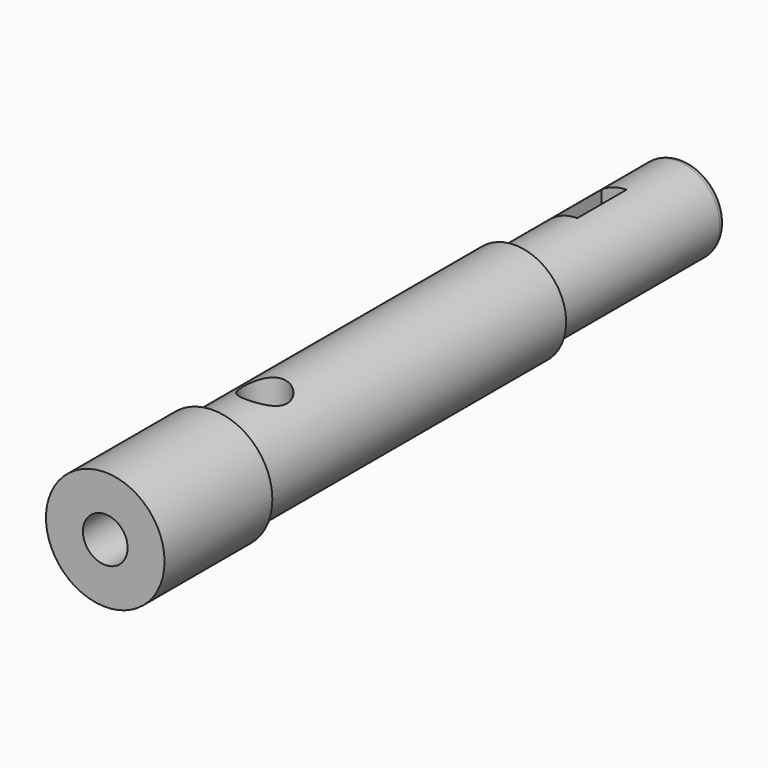
from build123d import *

# Parameters (mm, degrees)
F0_R          = 11
F0_R_2        = 4.15
F1_DEPTH      = 25
F2_R          = 9.5
F2_R_2        = 4.15
F3_DEPTH      = 70
F4_R          = 4.15
F5_DEPTH      = 11.001
F5_DEPTH_BACK = 25
F6_R          = 4.15
F7_DEPTH      = 37
F8_R          = 8
F9_DEPTH      = 39
F10_R         = 1.5
F11_W         = 4.6595567837
F11_H         = 11.4234238863
F12_DEPTH     = 25


with BuildPart() as f1:
    # F0 (on Front) → F1 (new body)
    with BuildSketch(Plane.XZ):
        Circle(F0_R)
        Circle(F0_R_2, mode=Mode.SUBTRACT)
    extrude(amount=F1_DEPTH)

    # F2 (on face) → F3 (join)
    with BuildSketch(Plane(origin=(0, 0, 0), x_dir=(-1, 0, 0), z_dir=(0, 1, 0))):
        Circle(F2_R)
        Circle(F2_R_2, mode=Mode.SUBTRACT)
        Circle(F2_R_2)
    extrude(amount=F3_DEPTH)

    # F4 (on Top) → F5 (cut, two sides)
    with BuildSketch(Plane.XY) as f5_sk:
        with Locations((0, 12)):
            Circle(F4_R)
    extrude(amount=F5_DEPTH, mode=Mode.SUBTRACT)
    extrude(f5_sk.sketch, amount=-F5_DEPTH_BACK, mode=Mode.SUBTRACT)

    # F6 (on face) → F7 (cut)
    with BuildSketch(Plane.XZ.offset(25)):
        Circle(F6_R)
    extrude(amount=-F7_DEPTH, mode=Mode.SUBTRACT)

    # F8 (on face) → F9 (join)
    with BuildSketch(Plane(origin=(0, 70, 0), x_dir=(-1, 0, 0), z_dir=(0, 1, 0))):
        Circle(F8_R)
    extrude(amount=F9_DEPTH)

    # F10
    f10_edges = [f1.edges().sort_by_distance(p)[0] for p in [
        (8, 109, 0),
    ]]
    fillet(f10_edges, radius=F10_R)

    # F11 (on Top) → F12 (cut)
    with BuildSketch(Plane.XY):
        with Locations((-2.3297783919, 90.184956789)):
            Rectangle(F11_W, F11_H)
    extrude(amount=F12_DEPTH, mode=Mode.SUBTRACT)


solid = f1.part
